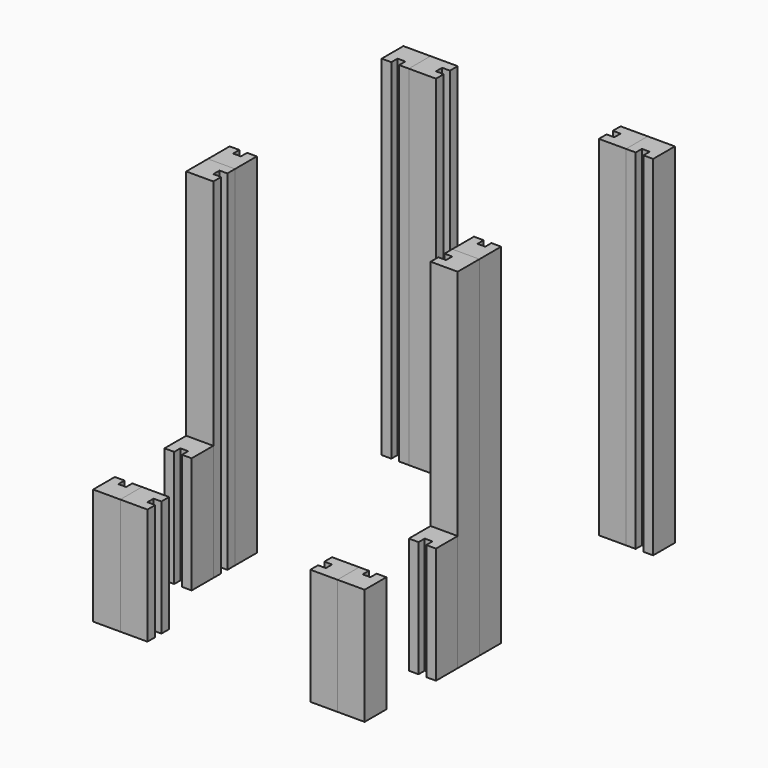
from build123d import *

# Parameters (mm, degrees)
F1_DEPTH = 900
F2_DEPTH = 900
F3_DEPTH = 900
F4_DEPTH = 900
F5_DEPTH = 300
F6_DEPTH = 300
F7_DEPTH = 300


with BuildPart() as f1:
    # F0 (on Top) → F1 (new body)
    with BuildSketch(Plane.XY):
        Polygon((-280, 0), (-350, 0), (-350, -70), (-325, -70), (-325, -50), (-305, -50), (-305, -70), (-280, -70), align=None)
    extrude(amount=F1_DEPTH)


with BuildPart() as f2:
    # F0 (on Top) → F2 (new body, through all)
    with BuildSketch(Plane.XY):
        Polygon((-210, 0), (-280, 0), (-280, -70), (-210, -70), (-210, -45), (-230, -45), (-230, -25), (-210, -25), align=None)
    extrude(amount=F2_DEPTH)


with BuildPart() as f3:
    # F0 (on Top) → F3 (new body, through all)
    with BuildSketch(Plane.XY):
        Polygon((-325, -630), (-350, -630), (-350, -700), (-280, -700), (-280, -630), (-305, -630), (-305, -650), (-325, -650), align=None)
    extrude(amount=F3_DEPTH)


with BuildPart() as f4:
    # F0 (on Top) → F4 (new body, through all)
    with BuildSketch(Plane.XY):
        Polygon((-280, -630), (-280, -700), (-210, -700), (-210, -675), (-230, -675), (-230, -655), (-210, -655), (-210, -630), align=None)
    extrude(amount=F4_DEPTH)


with BuildPart() as f5:
    # F0 (on Top) → F5 (new body)
    with BuildSketch(Plane.XY):
        Polygon((-280, -700), (-350, -700), (-350, -770), (-325, -770), (-325, -750), (-305, -750), (-305, -770), (-280, -770), align=None)
    extrude(amount=F5_DEPTH)


with BuildPart() as f6:
    # F0 (on Top) → F6 (new body, through all)
    with BuildSketch(Plane.XY):
        Polygon((-325, -930), (-350, -930), (-350, -1000), (-280, -1000), (-280, -930), (-305, -930), (-305, -950), (-325, -950), align=None)
    extrude(amount=F6_DEPTH)


with BuildPart() as f7:
    # F0 (on Top) → F7 (new body, through all)
    with BuildSketch(Plane.XY):
        Polygon((-280, -930), (-280, -1000), (-210, -1000), (-210, -975), (-230, -975), (-230, -955), (-210, -955), (-210, -930), align=None)
    extrude(amount=F7_DEPTH)


with BuildPart() as f8_1:
    # F8: instance of F1
    add(f1.part.mirror(Plane.YZ))


with BuildPart() as f8_2:
    # F8: instance of F2
    add(f2.part.mirror(Plane.YZ))


with BuildPart() as f8_3:
    # F8: instance of F3
    add(f3.part.mirror(Plane.YZ))


with BuildPart() as f8_4:
    # F8: instance of F4
    add(f4.part.mirror(Plane.YZ))


with BuildPart() as f8_5:
    # F8: instance of F5
    add(f5.part.mirror(Plane.YZ))


with BuildPart() as f8_6:
    # F8: instance of F6
    add(f6.part.mirror(Plane.YZ))


with BuildPart() as f8_7:
    # F8: instance of F7
    add(f7.part.mirror(Plane.YZ))


with BuildPart() as f3_1:
    # F9: moved
    add(f3.part.moved(Location((0, 70, 0))))


with BuildPart() as f8_3_1:
    # F9: moved
    add(f8_3.part.moved(Location((0, 70, 0))))


with BuildPart() as f4_1:
    # F10: moved
    add(f4.part.moved(Location((-70, 0, 0))))


with BuildPart() as f8_4_1:
    # F11: moved
    add(f8_4.part.moved(Location((70, 0, 0))))


solid = Compound([f1.part, f2.part, f5.part, f6.part, f7.part, f8_1.part, f8_2.part, f8_5.part, f8_6.part, f8_7.part, f3_1.part, f8_3_1.part, f4_1.part, f8_4_1.part])
